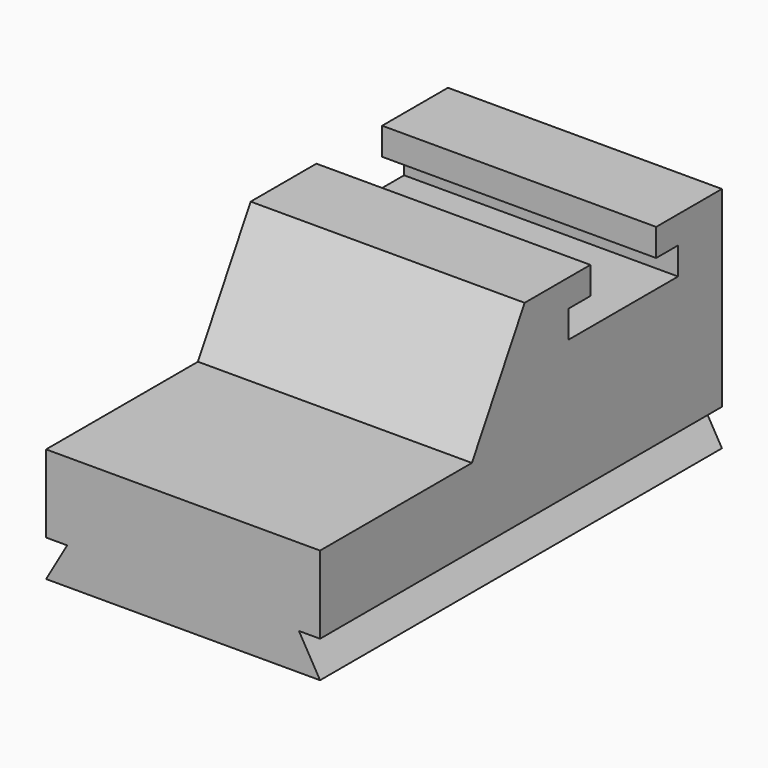
from build123d import *

# Parameters (mm, degrees)
F1_DEPTH = 1524
F3_DEPTH = 2794


with BuildPart() as f1:
    # F0 (on Right) → F1 (new body)
    with BuildSketch(Plane.YZ):
        Polygon((-70.022941, 352.7127), (-70.022941, -79.0873), (2723.977059, -79.0873), (2723.977059, 987.7127), (2266.777059, 987.7127), (2266.777059, 835.3127), (2419.177059, 835.3127), (2419.177059, 682.9127), (1657.177059, 682.9127), (1657.177059, 835.3127), (1809.577059, 835.3127), (1809.577059, 987.7127), (1352.377059, 987.7127), (985.759638, 352.7127), align=None)
    extrude(amount=-F1_DEPTH)

    # F2 (on face) → F3 (join)
    with BuildSketch(Plane.XZ.offset(70.022941)):
        Polygon((-1406.682425, -79.0873), (-1524, -282.2873), (0, -282.2873), (-117.317575, -79.0873), align=None)
    extrude(amount=-F3_DEPTH)


solid = f1.part
